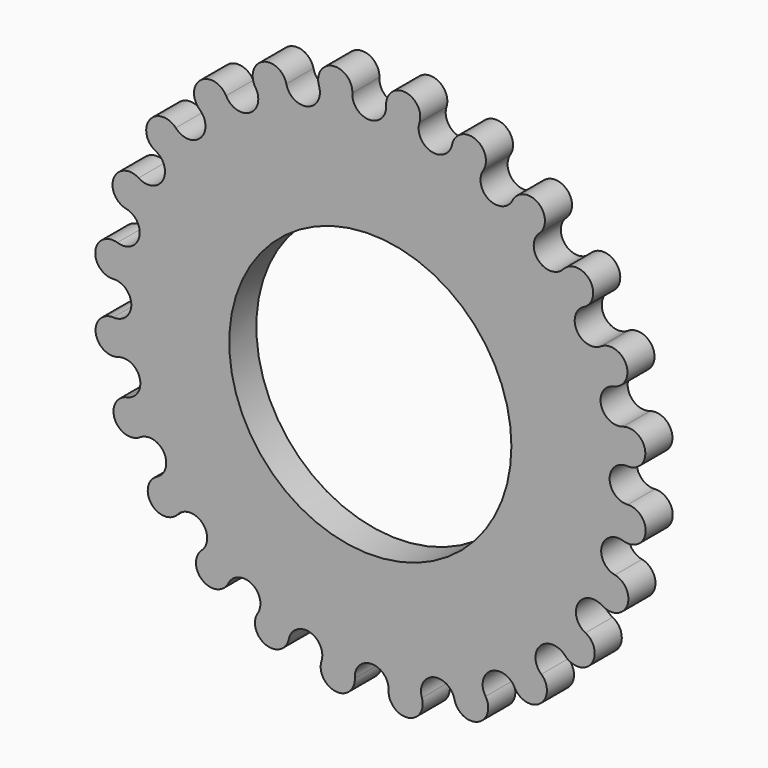
from build123d import *

# Parameters (mm, degrees)
F1_DEPTH = 3
F2_R     = 12.5
F3_DEPTH = 25


with BuildPart() as f1:
    # F0 (on Front) → F1 (new body)
    with BuildSketch(Plane.XZ):
        with BuildLine():
            ThreePointArc((1.398904, 22.998495), (-0.090533, 21.386152), (-1.593566, 22.985827))
            ThreePointArc((-1.593566, 22.985827), (-3.312302, 24.538343), (-4.549766, 22.580527))
            ThreePointArc((-4.549766, 22.580527), (-5.571146, 20.63763), (-7.436991, 21.793783))
            ThreePointArc((-7.436991, 21.793783), (-9.498983, 22.848557), (-10.187562, 20.637173))
            ThreePointArc((-10.187562, 20.637173), (-10.67128, 18.496125), (-12.772783, 19.129967))
            ThreePointArc((-12.772783, 19.129967), (-15.03751, 19.615118), (-15.130277, 17.300868))
            ThreePointArc((-15.130277, 17.300868), (-15.043369, 15.107579), (-17.237315, 15.175914))
            ThreePointArc((-17.237315, 15.175914), (-19.55044, 15.058379), (-19.041074, 12.798976))
            ThreePointArc((-19.041074, 12.798976), (-18.389463, 10.702915), (-20.526338, 10.201087))
            ThreePointArc((-20.526338, 10.201087), (-22.730225, 9.488876), (-21.653438, 7.438293))
            ThreePointArc((-21.653438, 7.438293), (-20.48153, 5.582303), (-22.41571, 4.54451))
            ThreePointArc((-22.41571, 4.54451), (-24.360167, 3.28616), (-22.789342, 1.584142))
            ThreePointArc((-22.789342, 1.584142), (-21.176999, 0.094705), (-22.776674, -1.408328))
            ThreePointArc((-22.776674, -1.408328), (-24.32919, -3.127064), (-22.371374, -4.364528))
            ThreePointArc((-22.371374, -4.364528), (-20.428477, -5.385908), (-21.58463, -7.251753))
            ThreePointArc((-21.58463, -7.251753), (-22.639404, -9.313745), (-20.42802, -10.002324))
            ThreePointArc((-20.42802, -10.002324), (-18.286972, -10.486042), (-18.920814, -12.587545))
            ThreePointArc((-18.920814, -12.587545), (-19.405965, -14.852272), (-17.091715, -14.945039))
            ThreePointArc((-17.091715, -14.945039), (-14.898426, -14.858131), (-14.966762, -17.052077))
            ThreePointArc((-14.966762, -17.052077), (-14.849227, -19.365202), (-12.589823, -18.855836))
            ThreePointArc((-12.589823, -18.855836), (-10.493762, -18.204225), (-9.991934, -20.3411))
            ThreePointArc((-9.991934, -20.3411), (-9.279723, -22.544987), (-7.22914, -21.4682))
            ThreePointArc((-7.22914, -21.4682), (-5.37315, -20.296292), (-4.335357, -22.230472))
            ThreePointArc((-4.335357, -22.230472), (-3.077007, -24.174929), (-1.374989, -22.604104))
            ThreePointArc((-1.374989, -22.604104), (0.114448, -20.991761), (1.617481, -22.591436))
            ThreePointArc((1.617481, -22.591436), (3.336217, -24.143952), (4.573681, -22.186136))
            ThreePointArc((4.573681, -22.186136), (5.595061, -20.243239), (7.460906, -21.399392))
            ThreePointArc((7.460906, -21.399392), (9.522898, -22.454166), (10.211476, -20.242782))
            ThreePointArc((10.211476, -20.242782), (10.695195, -18.101734), (12.796697, -18.735576))
            ThreePointArc((12.796697, -18.735576), (15.061424, -19.220727), (15.154192, -16.906477))
            ThreePointArc((15.154192, -16.906477), (15.067284, -14.713188), (17.26123, -14.781523))
            ThreePointArc((17.26123, -14.781523), (19.574354, -14.663989), (19.064989, -12.404585))
            ThreePointArc((19.064989, -12.404585), (18.413377, -10.308524), (20.550253, -9.806696))
            ThreePointArc((20.550253, -9.806696), (22.754139, -9.094485), (21.677353, -7.043902))
            ThreePointArc((21.677353, -7.043902), (20.505444, -5.187912), (22.439625, -4.150119))
            ThreePointArc((22.439625, -4.150119), (24.384082, -2.891769), (22.813256, -1.189751))
            ThreePointArc((22.813256, -1.189751), (21.200914, 0.299686), (22.800589, 1.802719))
            ThreePointArc((22.800589, 1.802719), (24.353105, 3.521455), (22.395289, 4.758919))
            ThreePointArc((22.395289, 4.758919), (20.452392, 5.780299), (21.608545, 7.646144))
            ThreePointArc((21.608545, 7.646144), (22.663319, 9.708136), (20.451935, 10.396714))
            ThreePointArc((20.451935, 10.396714), (18.310887, 10.880433), (18.944729, 12.981935))
            ThreePointArc((18.944729, 12.981935), (19.42988, 15.246662), (17.11563, 15.33943))
            ThreePointArc((17.11563, 15.33943), (14.922341, 15.252522), (14.990676, 17.446468))
            ThreePointArc((14.990676, 17.446468), (14.873141, 19.759592), (12.613737, 19.250227))
            ThreePointArc((12.613737, 19.250227), (10.517677, 18.598615), (10.015849, 20.735491))
            ThreePointArc((10.015849, 20.735491), (9.303638, 22.939377), (7.253055, 21.862591))
            ThreePointArc((7.253055, 21.862591), (5.397065, 20.690682), (4.359272, 22.624863))
            ThreePointArc((4.359272, 22.624863), (3.100922, 24.56932), (1.398904, 22.998495))
        make_face()
    extrude(amount=F1_DEPTH)

    # F2 (on face) → F3 (cut)
    with BuildSketch(Plane.XZ.offset(3)):
        Circle(F2_R)
    extrude(amount=-F3_DEPTH, mode=Mode.SUBTRACT)


solid = f1.part
